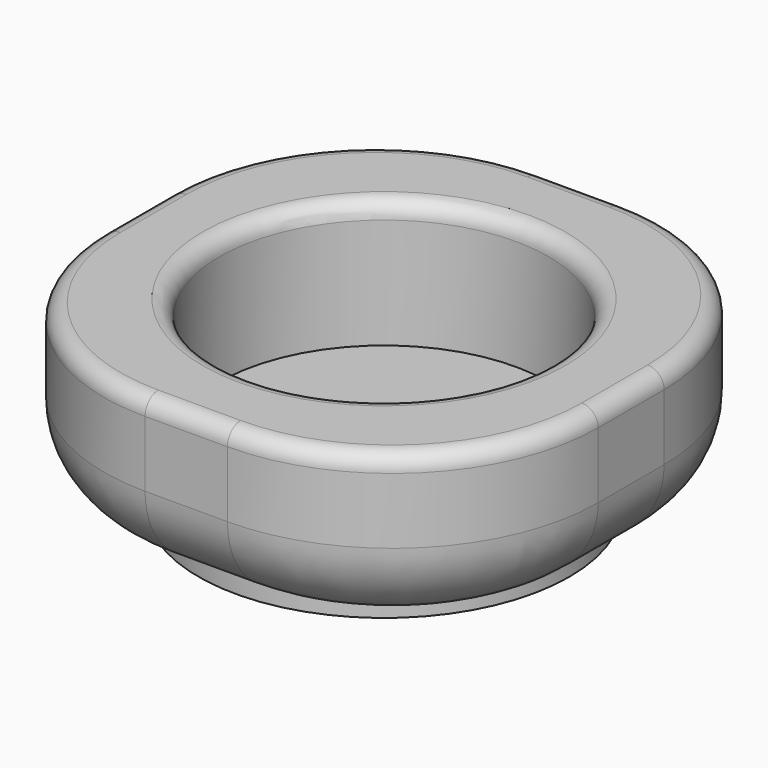
from build123d import *

# Parameters (mm, degrees)
F0_W     = 76.2
F0_H     = 76.2
F0_R     = 25.4
F1_DEPTH = 25.4
F2_DEPTH = 5.842
F3_R     = 31.75
F4_R     = 12.7
F5_R     = 2.54
F6_R     = 28.575
F7_DEPTH = 3.048


with BuildPart() as f1:
    # F0 (on Top) → F1 (new body)
    with BuildSketch(Plane.XY):
        Rectangle(F0_W, F0_H)
        Circle(F0_R, mode=Mode.SUBTRACT)
    extrude(amount=F1_DEPTH)

    # F0 (on Top) → F2 (join)
    with BuildSketch(Plane.XY):
        Circle(F0_R)
    extrude(amount=F2_DEPTH)

    # F3
    f3_edges = [f1.edges().sort_by_distance(p)[0] for p in [
        (38.1, 38.1, 12.7),
        (-38.1, 38.1, 12.7),
        (-38.1, -38.1, 12.7),
        (38.1, -38.1, 12.7),
    ]]
    fillet(f3_edges, radius=F3_R)

    # F4
    f4_edges = [f1.edges().sort_by_distance(p)[0] for p in [
        (0, -38.1, 0),
        (-28.80064, -28.80064, 0),
        (28.80064, -28.80064, 0),
        (-38.1, 0, 0),
        (38.1, 0, 0),
        (-28.80064, 28.80064, 0),
        (28.80064, 28.80064, 0),
        (0, 38.1, 0),
    ]]
    fillet(f4_edges, radius=F4_R)

    # F5
    f5_edges = [f1.edges().sort_by_distance(p)[0] for p in [
        (0, -38.1, 25.4),
        (-28.80064, -28.80064, 25.4),
        (28.80064, -28.80064, 25.4),
        (-38.1, 0, 25.4),
        (38.1, 0, 25.4),
        (-28.80064, 28.80064, 25.4),
        (28.80064, 28.80064, 25.4),
        (0, 38.1, 25.4),
        (-25.4, 0, 25.4),
    ]]
    fillet(f5_edges, radius=F5_R)


with BuildPart() as f7:
    # F6 (on face) → F7 (new body)
    with BuildSketch(Plane(origin=(0, 0, 0), x_dir=(1, 0, 0), z_dir=(0, 0, -1))):
        Circle(F6_R)
        with BuildLine():
            ThreePointArc((21.9276955143, 17.3153044857), (26.394160459, 9.1647091425), (27.94, 0))
            ThreePointArc((27.94, 0), (26.394160459, -9.1647091425), (21.9276955143, -17.3153044857))
            ThreePointArc((21.9276955143, -17.3153044857), (19.8203841816, -19.8203841816), (17.3153044857, -21.9276955143))
            ThreePointArc((17.3153044857, -21.9276955143), (0, -27.94), (-17.3153044857, -21.9276955143))
            ThreePointArc((-17.3153044857, -21.9276955143), (-19.8203841816, -19.8203841816), (-21.9276955143, -17.3153044857))
            ThreePointArc((-21.9276955143, -17.3153044857), (-27.94, 0), (-21.9276955143, 17.3153044857))
            ThreePointArc((-21.9276955143, 17.3153044857), (-19.8203841816, 19.8203841816), (-17.3153044857, 21.9276955143))
            ThreePointArc((-17.3153044857, 21.9276955143), (0, 27.94), (17.3153044857, 21.9276955143))
            ThreePointArc((17.3153044857, 21.9276955143), (19.8203841816, 19.8203841816), (21.9276955143, 17.3153044857))
        make_face(mode=Mode.SUBTRACT)
    extrude(amount=F7_DEPTH)


solid = Compound([f1.part, f7.part])
